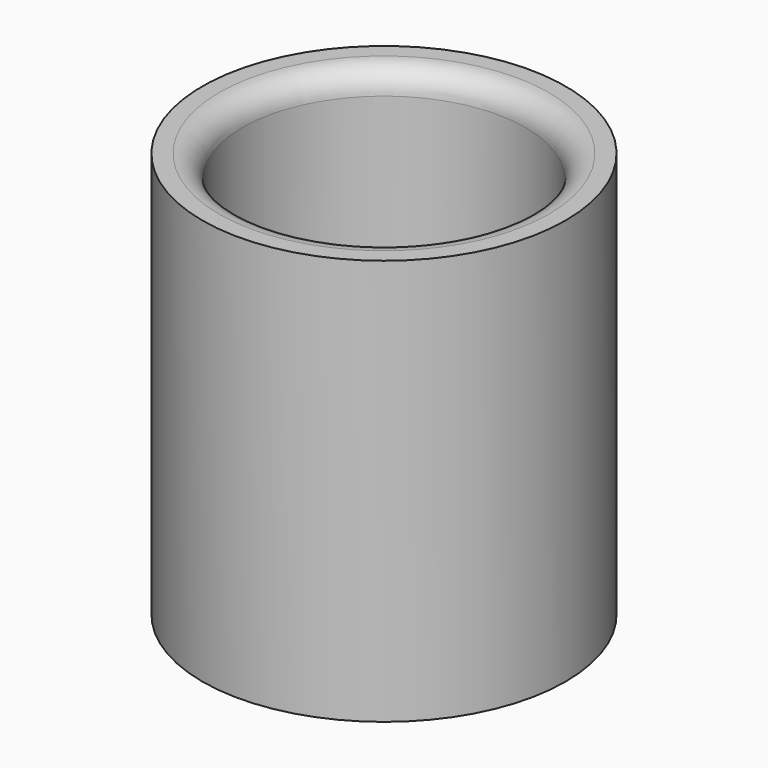
from build123d import *

# Parameters (mm, degrees)
F0_R     = 39.780695
F0_R_2   = 31
F1_DEPTH = 88.9
F2_DEPTH = 2.54
F3_R     = 5.08


with BuildPart() as f1:
    # F0 (on Top) → F1 (new body)
    with BuildSketch(Plane.XY):
        Circle(F0_R)
        Circle(F0_R_2, mode=Mode.SUBTRACT)
    extrude(amount=F1_DEPTH)

    # F0 (on Top) → F2 (join)
    with BuildSketch(Plane.XY):
        Circle(F0_R_2)
    extrude(amount=F2_DEPTH)

    # F3
    f3_edges = [f1.edges().sort_by_distance(p)[0] for p in [
        (-31, 0, 88.9),
    ]]
    fillet(f3_edges, radius=F3_R)


solid = f1.part
